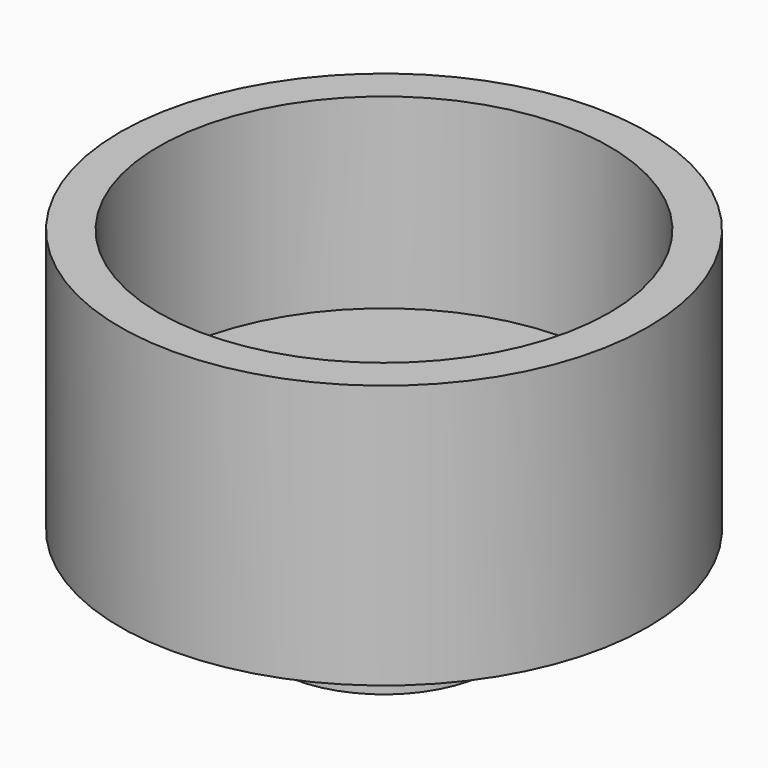
from build123d import *

# Parameters (mm, degrees)
F0_R          = 38.1
F0_R_2        = 32.512
F1_DEPTH      = 38.1
F0_R_3        = 3.175
F2_DEPTH      = 11.176
F0_R_4        = 8.255
F3_DEPTH      = 11.176
F3_DEPTH_BACK = 12.7
F4_START      = -3.048
F4_DEPTH      = 9.652


with BuildPart() as f1:
    # F0 (on Top) → F1 (new body)
    with BuildSketch(Plane.XY):
        Circle(F0_R)
        Circle(F0_R_2, mode=Mode.SUBTRACT)
    extrude(amount=F1_DEPTH)

    # F0 (on Top) → F2 (join)
    with BuildSketch(Plane.XY):
        Circle(F0_R_2)
        with BuildLine():
            ThreePointArc((6.3494223473, 14.5499299262), (13.2818053133, 8.6953592576), (15.875, 0))
            ThreePointArc((15.875, 0), (-8.6950956004, -13.2819779212), (-6.35, 14.5496778315))
            Line((-6.35, 14.5496778315), (-6.35, 22.225))
            ThreePointArc((-6.35, 22.225), (0, 28.575), (6.35, 22.225))
            ThreePointArc((6.35, 22.225), (6.3498555852, 22.18217422), (6.3494223473, 22.139350388))
            Line((6.3494223473, 22.139350388), (6.3494223473, 14.5499299262))
        make_face(mode=Mode.SUBTRACT)
        with Locations((15.7154482119, 15.7154482119)):
            Circle(F0_R_3, mode=Mode.SUBTRACT)
        with BuildLine():
            ThreePointArc((-6.35, 22.225), (-4.4901280605, 17.7348719395), (0, 15.875))
            ThreePointArc((0, 15.875), (4.4597435444, 17.7046916568), (6.3494223473, 22.139350388))
            ThreePointArc((6.3494223473, 22.139350388), (6.3498555852, 22.18217422), (6.35, 22.225))
            ThreePointArc((6.35, 22.225), (0, 28.575), (-6.35, 22.225))
        make_face()
        with BuildLine():
            ThreePointArc((0, 15.875), (3.2431071076, 15.5402020994), (6.3494223473, 14.5499299262))
            Line((6.3494223473, 14.5499299262), (6.3494223473, 22.139350388))
            ThreePointArc((6.3494223473, 22.139350388), (4.4597435444, 17.7046916568), (0, 15.875))
        make_face()
        with BuildLine():
            Line((-6.35, 22.225), (-6.35, 14.5496778315))
            ThreePointArc((-6.35, 14.5496778315), (-3.2434155936, 15.5401377178), (0, 15.875))
            ThreePointArc((0, 15.875), (-4.4901280605, 17.7348719395), (-6.35, 22.225))
        make_face()
    extrude(amount=F2_DEPTH)

    # F0 (on Top) → F3 (join, two sides)
    with BuildSketch(Plane.XY) as f3_sk:
        with BuildLine():
            ThreePointArc((-6.35, 14.5496778315), (-8.6950956004, -13.2819779212), (15.875, 0))
            ThreePointArc((15.875, 0), (13.2818053133, 8.6953592576), (6.3494223473, 14.5499299262))
            ThreePointArc((6.3494223473, 14.5499299262), (3.2431071076, 15.5402020994), (0, 15.875))
            ThreePointArc((0, 15.875), (-3.2434155936, 15.5401377178), (-6.35, 14.5496778315))
        make_face()
        Circle(F0_R_4, mode=Mode.SUBTRACT)
    extrude(amount=F3_DEPTH)
    extrude(f3_sk.sketch, amount=-F3_DEPTH_BACK)

    # F0 (on Top) → F4 (join)
    with BuildSketch(Plane.XY.offset(F4_START)):
        with BuildLine():
            ThreePointArc((-6.35, 22.225), (-4.4901280605, 17.7348719395), (0, 15.875))
            ThreePointArc((0, 15.875), (4.4597435444, 17.7046916568), (6.3494223473, 22.139350388))
            ThreePointArc((6.3494223473, 22.139350388), (6.3498555852, 22.18217422), (6.35, 22.225))
            ThreePointArc((6.35, 22.225), (0, 28.575), (-6.35, 22.225))
        make_face()
        with BuildLine():
            Line((-6.35, 22.225), (-6.35, 14.5496778315))
            ThreePointArc((-6.35, 14.5496778315), (-3.2434155936, 15.5401377178), (0, 15.875))
            ThreePointArc((0, 15.875), (-4.4901280605, 17.7348719395), (-6.35, 22.225))
        make_face()
        with BuildLine():
            ThreePointArc((0, 15.875), (3.2431071076, 15.5402020994), (6.3494223473, 14.5499299262))
            Line((6.3494223473, 14.5499299262), (6.3494223473, 22.139350388))
            ThreePointArc((6.3494223473, 22.139350388), (4.4597435444, 17.7046916568), (0, 15.875))
        make_face()
    extrude(amount=-F4_DEPTH)


solid = f1.part
